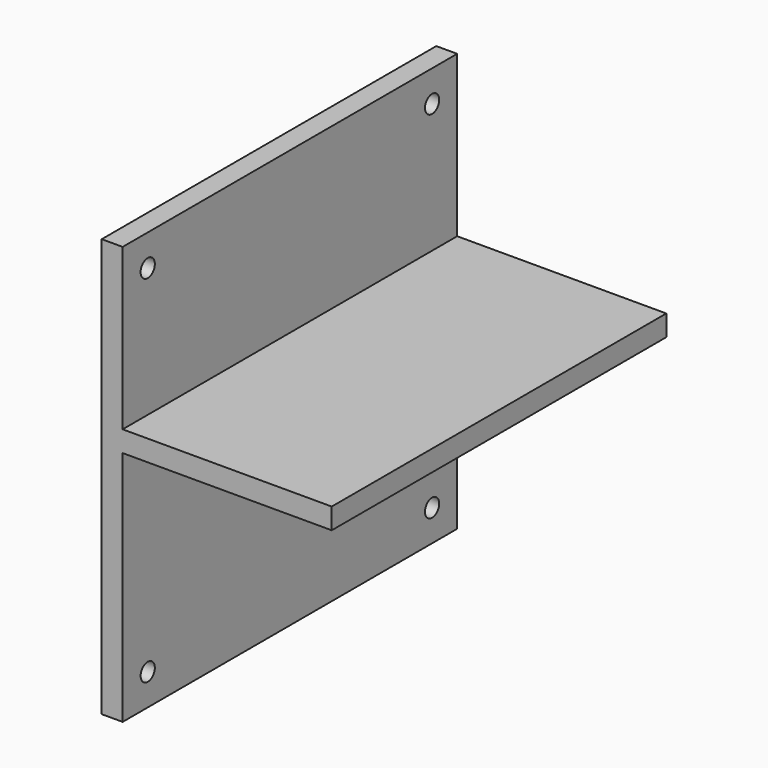
from build123d import *

# Parameters (mm, degrees)
F1_DEPTH = 200
F2_W     = 10
F2_H     = 39.4300983846
F3_DEPTH = 70
F5_DEPTH = 70
F7_D     = 8.5


with BuildPart() as f1:
    # F0 (on Front) → F1 (new body)
    with BuildSketch(Plane.XZ):
        Polygon((-44.5507265627, 119.5215136588), (-54.5507265627, 119.5215136588), (-54.5507265627, -80.4784863412), (-44.5507265627, -80.4784863412), (-44.5507265627, 32.7215136588), (55.4492734373, 32.7215136588), (55.4492734373, 42.7215136588), (-44.5507265627, 42.7215136588), align=None)
    extrude(amount=F1_DEPTH)

    # F2 (on face) → F3 (join)
    with BuildSketch(Plane.YZ.offset(-44.5507265627)):
        with Locations((-100, 13.0064644665)):
            Rectangle(F2_W, F2_H)
    extrude(amount=F3_DEPTH)

    # F4 (on face) → F5 (cut)
    with BuildSketch(Plane(origin=(0, -95, 0), x_dir=(-1, 0, 0), z_dir=(0, 1, 0))):
        Polygon((44.5507265627, -6.7085847259), (-25.4492734373, 32.7215136588), (-25.4492734373, -6.7085847259), align=None)
    extrude(amount=-F5_DEPTH, mode=Mode.SUBTRACT)

    # F7 (through all)
    with Locations(Plane(origin=(-54.5507265627, 0, 0), x_dir=(0, -1, 0), z_dir=(-1, 0, 0))):
        with Locations((185, 104.5215136588), (15, 104.5215136588), (15, -65.4784863412), (185, -65.4784863412)):
            Hole(F7_D / 2)


solid = f1.part
